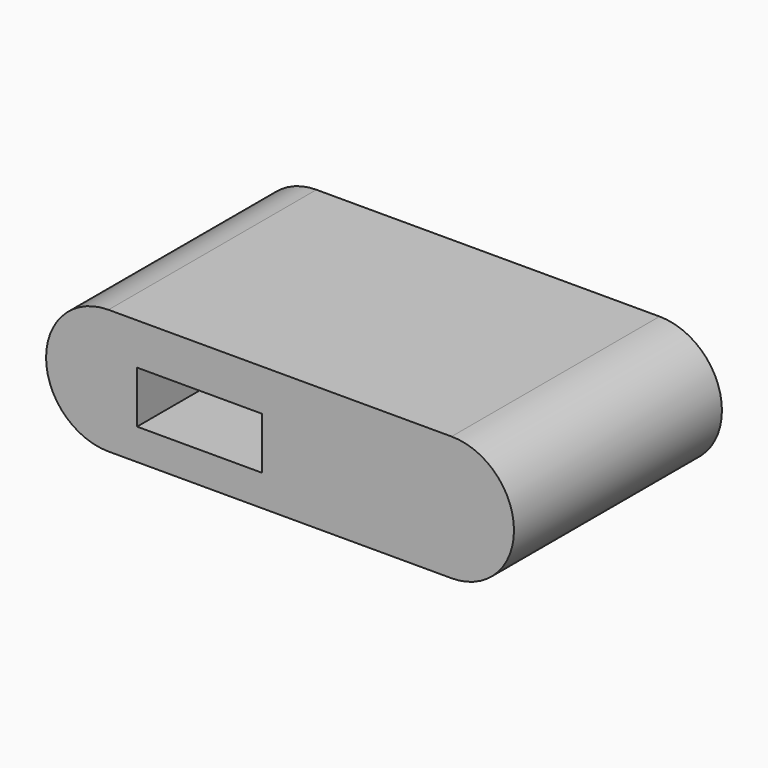
from build123d import *

# Parameters (mm, degrees)
F0_W     = 12
F0_H     = 5
F1_DEPTH = 25


with BuildPart() as f1:
    # F0 (on Front) → F1 (new body)
    with BuildSketch(Plane.XZ):
        with BuildLine():
            Line((16.5, 6), (0, 6))
            Line((0, 6), (-16.5, 6))
            ThreePointArc((-16.5, 6), (-22.5, 0), (-16.5, -6))
            Line((-16.5, -6), (0, -6))
            Line((0, -6), (16.5, -6))
            ThreePointArc((16.5, -6), (22.5, 0), (16.5, 6))
        make_face()
        with Locations((-7.75, -0.5)):
            Rectangle(F0_W, F0_H, mode=Mode.SUBTRACT)
    extrude(amount=F1_DEPTH)


solid = f1.part
